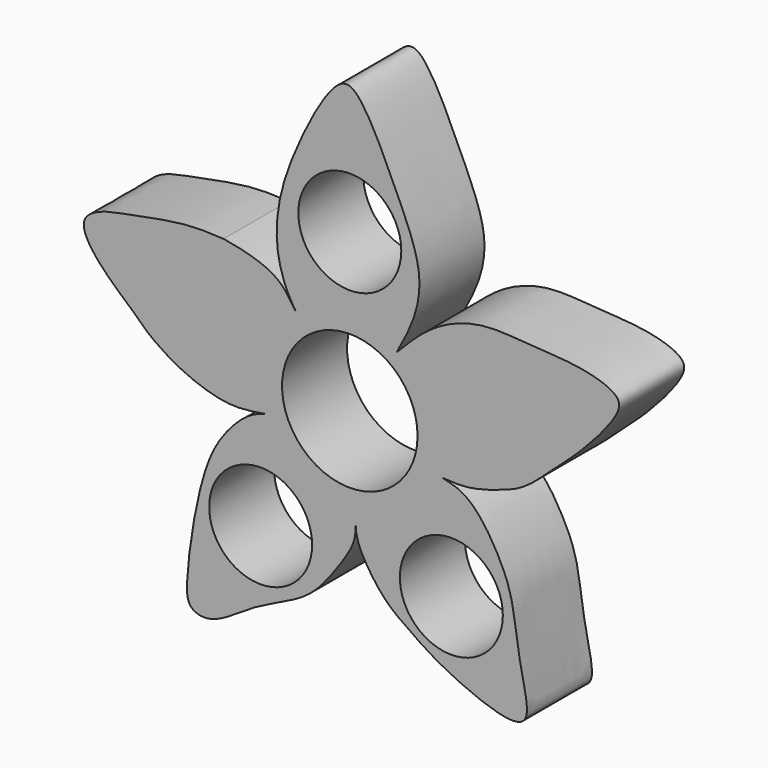
from build123d import *

# Parameters (mm, degrees)
F0_R     = 4.826
F0_R_2   = 6.35
F1_DEPTH = 7.62


with BuildPart() as f1:
    # F0 (on Front) → F1 (new body)
    with BuildSketch(Plane.XZ):
        with BuildLine():
            add(Edge.make_bspline(
                [(8.6632372785, -2.7020075007), (9.4519235152, -2.7517546604), (11.1043536678, -2.8559833165), (13.958801042, -2.0206480406), (16.5797632269, -1.0533890818), (19.4013688774, 1.7742927809), (21.6800865268, 3.6131555188), (25.4388770793, 7.8806544048), (25.2049561407, 9.5955078091), (21.7139732915, 10.767358458), (16.7151159148, 10.8859162941), (12.3296734811, 11.4164787243), (7.7724945531, 9.7350428974), (5.5355489065, 7.4393573177), (4.4041351913, 6.2782338212)],
                knots=[0, 0, 0, 0, 0.0686257635, 0.1437825025, 0.2180184861, 0.3035063008, 0.3840569246, 0.4865587924, 0.5354246903, 0.6151357649, 0.7159733369, 0.8085915253, 0.9031884508, 1, 1, 1, 1], degree=3))
            add(Edge.make_bspline(
                [(4.4041351913, 6.2782338212), (4.9954669157, 7.3769116724), (6.1963024959, 9.6080306882), (6.9498270259, 13.8370695141), (4.3064944933, 19.691469026), (1.2428777864, 26.3477469375), (-1.2973281187, 27.5017386032), (-5.236780481, 20.0600908894), (-6.8161734301, 15.0621645566), (-6.9634883982, 11.0425374202), (-6.013076411, 8.0662189948), (-5.3465969742, 7.0123999354), (-5.0600683816, 6.5593487605)],
                knots=[0, 0, 0, 0, 0.0935178256, 0.1899095343, 0.3149446274, 0.4453508211, 0.5077414574, 0.6406838471, 0.7573719085, 0.8522888167, 0.9364969493, 1, 1, 1, 1], degree=3))
            add(Edge.make_bspline(
                [(-5.0600683816, 6.5593487605), (-5.5567810492, 7.3335979917), (-6.5825794434, 8.9325578527), (-9.6704326107, 9.9673070436), (-11.153579537, 10.2288630886), (-11.8297685367, 10.3481104251)],
                knots=[0, 0, 0, 0, 0.3380964531, 0.6982282137, 1, 1, 1, 1], degree=3))
            add(Edge.make_bspline(
                [(-11.8297685367, 10.3481104251), (-12.9519344552, 10.4115580205), (-15.4527001787, 10.5529520598), (-20.8224447614, 9.4279382089), (-23.5742062474, 8.9468881404), (-25.4260400064, 7.5806393427), (-23.9720140739, 4.7920623124), (-21.7057866664, 2.8154098882), (-20.3848530347, 1.6632630839)],
                knots=[0, 0, 0, 0, 0.171930136, 0.383149215, 0.5361942712, 0.6545573245, 0.7986491354, 1, 1, 1, 1], degree=3))
            add(Edge.make_bspline(
                [(-20.3848530347, 1.6632630839), (-19.8228628744, 1.1056253136), (-18.5795415436, -0.1280669883), (-15.4910487521, -2.0231130283), (-11.3437731713, -3.4139639021), (-8.9908422869, -3.007945781), (-7.8809561192, -2.8164255373)],
                knots=[0, 0, 0, 0, 0.2121621678, 0.4693778779, 0.7497035899, 1, 1, 1, 1], degree=3))
            add(Edge.make_bspline(
                [(-7.8809561192, -2.8164255373), (-8.3870515255, -2.9689355634), (-9.6011153591, -3.3348172755), (-12.0555816625, -5.8554408885), (-13.5600208538, -8.8749210266), (-14.7057466836, -13.7436782463), (-15.3111232987, -18.6509559808), (-15.2833142873, -21.2652237118), (-12.6503282798, -21.8264998823), (-9.0212734657, -18.8109413955), (-4.0323037278, -17.0209239772), (-1.6313386527, -14.0274166163), (0.5084757173, -10.9407490825), (0.540471539, -9.764147307), (0.5534639861, -9.3035393332)],
                knots=[0, 0, 0, 0, 0.0597160615, 0.1432340365, 0.2275586567, 0.330211471, 0.4334842125, 0.5005042657, 0.5639301992, 0.6622007872, 0.7673201495, 0.8571320257, 0.9438178001, 1, 1, 1, 1], degree=3))
            add(Edge.make_bspline(
                [(0.5534639861, -9.3035393332), (0.58956143, -9.7448225278), (0.6853800518, -10.915827936), (3.0454532406, -14.5513581047), (5.425435663, -16.1591807609), (8.1475018355, -18.1216571091), (13.1259752578, -20.3797015726), (15.8763450773, -20.7776753892), (16.9582586913, -19.6309531907), (15.8106331655, -15.4635093503), (15.37359308, -11.0356568864), (14.497531298, -8.3956574937), (12.6313566193, -5.0429717122), (10.6260877156, -3.1463854545), (9.2799133373, -2.8415899602), (8.6632372785, -2.7020075007)],
                knots=[0, 0, 0, 0, 0.0546254495, 0.1449737632, 0.2203185102, 0.3013128905, 0.405891608, 0.4761614519, 0.5220923864, 0.611751287, 0.7067418608, 0.7804665364, 0.8663294856, 0.9388502522, 1, 1, 1, 1], degree=3))
        make_face()
        with Locations((-8.3587039262, -12.2090121731)):
            Circle(F0_R, mode=Mode.SUBTRACT)
        Circle(F0_R_2, mode=Mode.SUBTRACT)
        with Locations((9.5185693353, -12.2090121731)):
            Circle(F0_R, mode=Mode.SUBTRACT)
        with Locations((0, 14.769741334)):
            Circle(F0_R, mode=Mode.SUBTRACT)
    extrude(amount=F1_DEPTH)


solid = f1.part
